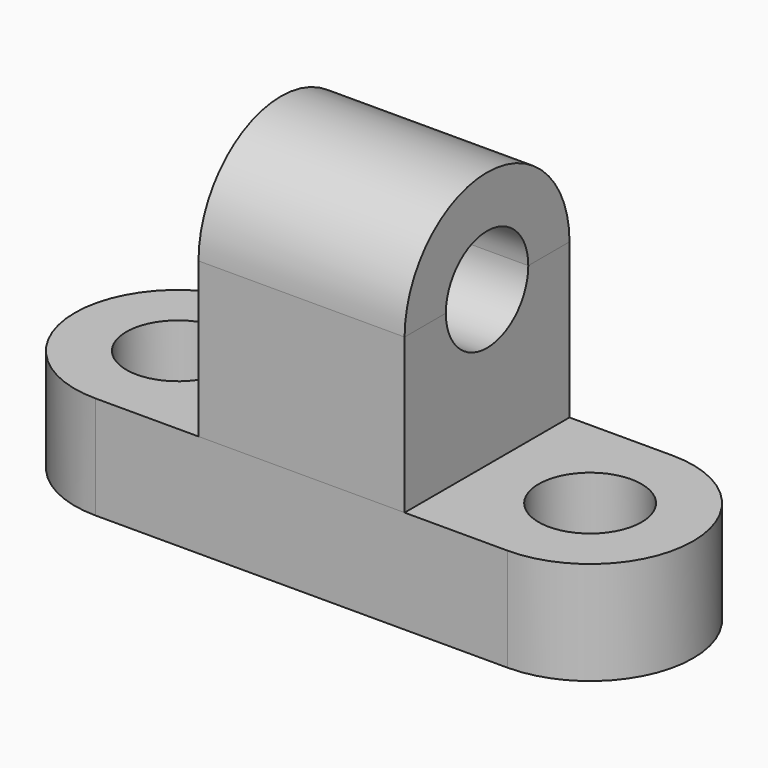
from build123d import *

# Parameters (mm, degrees)
F0_W      = 50.8
F0_H      = 25.4
F1_DEPTH  = 12.7
F2_R      = 6.35
F3_DEPTH  = 25.4
F4_W      = 25.4
F4_H      = 19.05
F5_DEPTH  = 25.4
F7_DEPTH  = 25.4
F9_DEPTH  = 25.4
F11_DEPTH = 25.4


with BuildPart() as f1:
    # F0 (on Top) → F1 (new body)
    with BuildSketch(Plane.XY):
        with BuildLine():
            ThreePointArc((0, 25.4), (-12.7, 12.7), (0, 0))
            Line((0, 0), (0, 25.4))
        make_face()
        with Locations((25.4, 12.7)):
            Rectangle(F0_W, F0_H)
        with BuildLine():
            Line((50.8, 25.4), (50.8, 0))
            ThreePointArc((50.8, 0), (63.5, 12.7), (50.8, 25.4))
        make_face()
    extrude(amount=F1_DEPTH)

    # F2 (on face) → F3 (cut)
    with BuildSketch(Plane.XY.offset(12.7)):
        with Locations((0, 12.7)):
            Circle(F2_R)
        with Locations((50.8, 12.7)):
            Circle(F2_R)
    extrude(amount=-F3_DEPTH, mode=Mode.SUBTRACT)

    # F10 (on face) → F11 (cut)
    with BuildSketch(Plane.YZ.offset(38.1)):
        with BuildLine():
            ThreePointArc((6.35, 31.75), (12.7, 25.4), (19.05, 31.75))
            ThreePointArc((19.05, 31.75), (12.7, 38.1), (6.35, 31.75))
        make_face()
    extrude(amount=-F11_DEPTH, mode=Mode.SUBTRACT)


with BuildPart() as f5:
    # F4 (on face) → F5 (new body)
    with BuildSketch(Plane.XZ):
        with Locations((25.4, 22.225)):
            Rectangle(F4_W, F4_H)
    extrude(amount=-F5_DEPTH)


with BuildPart() as f7:
    # F6 (on face) → F7 (new body)
    with BuildSketch(Plane.YZ.offset(38.1)):
        with BuildLine():
            Line((0, 31.75), (25.4, 31.75))
            ThreePointArc((25.4, 31.75), (12.7, 44.45), (0, 31.75))
        make_face()
    extrude(amount=-F7_DEPTH)


with BuildPart() as f9_tool:
    # F8 (on face) → F9 (new body)
    with BuildSketch(Plane.YZ.offset(38.1)):
        with BuildLine():
            ThreePointArc((6.35, 31.75), (12.7, 25.4), (19.05, 31.75))
            Line((19.05, 31.75), (6.35, 31.75))
        make_face()
        with BuildLine():
            Line((6.35, 31.75), (19.05, 31.75))
            ThreePointArc((19.05, 31.75), (12.7, 38.1), (6.35, 31.75))
        make_face()
    extrude(amount=-F9_DEPTH)


with BuildPart() as f5_1:
    add(f5.part)

    # F9: cut by f9_tool
    add(f9_tool.part, mode=Mode.SUBTRACT)


with BuildPart() as f7_1:
    add(f7.part)

    # F9: cut by f9_tool
    add(f9_tool.part, mode=Mode.SUBTRACT)


solid = Compound([f1.part, f5_1.part, f7_1.part])
